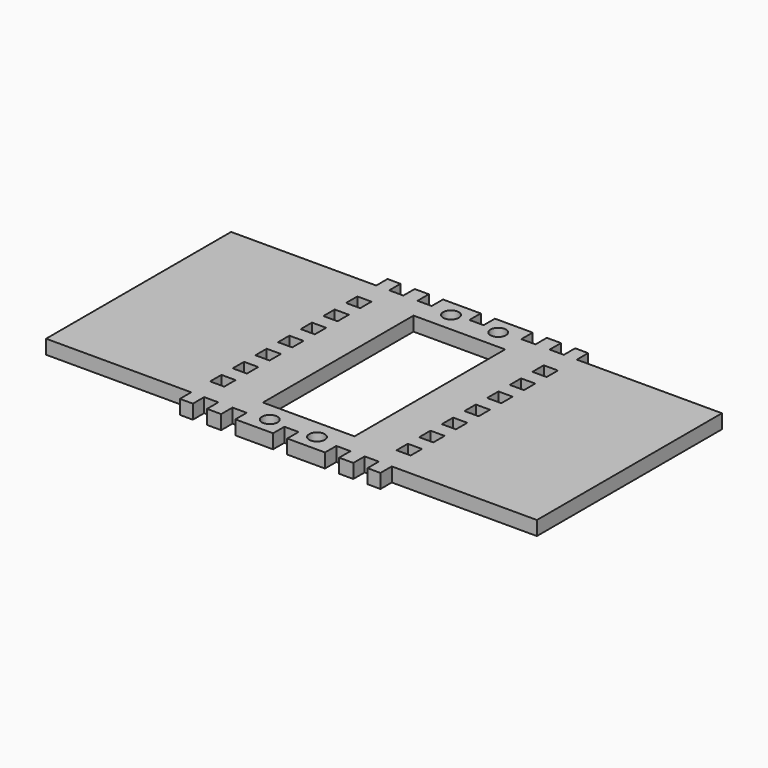
from build123d import *

# Parameters (mm, degrees)
F0_R     = 1.65
F0_W     = 19.4
F0_H     = 39.9
F1_DEPTH = 3
F3_DEPTH = 3


with BuildPart() as f1:
    # F0 (on Top) → F1 (new body)
    with BuildSketch(Plane.XY):
        Polygon((17.517377, -26.128115), (20.267377, -26.128115), (20.267377, -18.128115), (17.267377, -18.128115), (17.267377, -15.128115), (20.267377, -15.128115), (20.267377, -12.128115), (17.267377, -12.128115), (17.267377, -9.128115), (20.267377, -9.128115), (20.267377, -6.128115), (17.267377, -6.128115), (17.267377, -3.128115), (20.267377, -3.128115), (20.267377, -0.128115), (17.267377, -0.128115), (17.267377, 2.871885), (20.267377, 2.871885), (20.267377, 5.871885), (17.267377, 5.871885), (17.267377, 8.871885), (20.267377, 8.871885), (20.267377, 11.871885), (17.267377, 11.871885), (17.267377, 14.871885), (20.267377, 14.871885), (20.267377, 17.871885), (17.267377, 17.871885), (17.267377, 20.871885), (20.267377, 20.871885), (20.267377, 28.871885), (17.517377, 28.871885), (17.517377, 25.871885), (14.517377, 25.871885), (14.517377, 28.871885), (11.517377, 28.871885), (11.517377, 25.871885), (8.517377, 25.871885), (8.517377, 28.871885), (0.517377, 28.871885), (0.517377, 25.871885), (-2.482623, 25.871885), (-2.482623, 28.871885), (-10.482623, 28.871885), (-10.482623, 25.871885), (-13.482623, 25.871885), (-13.482623, 28.871885), (-16.482623, 28.871885), (-16.482623, 25.871885), (-19.482623, 25.871885), (-19.482623, 28.871885), (-22.232623, 28.871885), (-22.232623, 20.871885), (-19.232623, 20.871885), (-19.232623, 17.871885), (-22.232623, 17.871885), (-22.232623, 14.871885), (-19.232623, 14.871885), (-19.232623, 11.871885), (-22.232623, 11.871885), (-22.232623, 8.871885), (-19.232623, 8.871885), (-19.232623, 5.871885), (-22.232623, 5.871885), (-22.232623, 2.871885), (-19.232623, 2.871885), (-19.232623, -0.128115), (-22.232623, -0.128115), (-22.232623, -3.128115), (-19.232623, -3.128115), (-19.232623, -6.128115), (-22.232623, -6.128115), (-22.232623, -9.128115), (-19.232623, -9.128115), (-19.232623, -12.128115), (-22.232623, -12.128115), (-22.232623, -15.128115), (-19.232623, -15.128115), (-19.232623, -18.128115), (-22.232623, -18.128115), (-22.232623, -26.128115), (-19.482623, -26.128115), (-19.482623, -23.128115), (-16.482623, -23.128115), (-16.482623, -26.128115), (-13.482623, -26.128115), (-13.482623, -23.128115), (-10.482623, -23.128115), (-10.482623, -26.128115), (-2.482623, -26.128115), (-2.482623, -23.128115), (0.517377, -23.128115), (0.517377, -26.128115), (8.517377, -26.128115), (8.517377, -23.128115), (11.517377, -23.128115), (11.517377, -26.128115), (14.517377, -26.128115), (14.517377, -23.128115), (17.517377, -23.128115), align=None)
        with Locations((-5.982623, -22.628115)):
            Circle(F0_R, mode=Mode.SUBTRACT)
        with Locations((4.017377, -22.628115)):
            Circle(F0_R, mode=Mode.SUBTRACT)
        with Locations((-0.982623, 1.371885)):
            Rectangle(F0_W, F0_H, mode=Mode.SUBTRACT)
        with Locations((-5.982623, 25.371885)):
            Circle(F0_R, mode=Mode.SUBTRACT)
        with Locations((4.017377, 25.371885)):
            Circle(F0_R, mode=Mode.SUBTRACT)
    extrude(amount=F1_DEPTH)

    # F2 (on face) → F3 (join)
    with BuildSketch(Plane.XY.offset(3)):
        Polygon((-52.982623, -23.128115), (-22.232623, -23.128115), (-22.232623, -18.128115), (-22.232623, -15.128115), (-22.232623, -12.128115), (-22.232623, -9.128115), (-22.232623, -6.128115), (-22.232623, -3.128115), (-22.232623, -0.128115), (-22.232623, 2.871885), (-22.232623, 5.871885), (-22.232623, 8.871885), (-22.232623, 11.871885), (-22.232623, 14.871885), (-22.232623, 17.871885), (-22.232623, 20.871885), (-22.232623, 25.871885), (-52.982623, 25.871885), align=None)
        Polygon((20.267377, -18.128115), (20.267377, -23.128115), (51.017377, -23.128115), (51.017377, 25.871885), (20.267377, 25.871885), (20.267377, 20.871885), (20.267377, 17.871885), (20.267377, 14.871885), (20.267377, 11.871885), (20.267377, 8.871885), (20.267377, 5.871885), (20.267377, 2.871885), (20.267377, -0.128115), (20.267377, -3.128115), (20.267377, -6.128115), (20.267377, -9.128115), (20.267377, -12.128115), (20.267377, -15.128115), align=None)
    extrude(amount=-F3_DEPTH)


solid = f1.part
